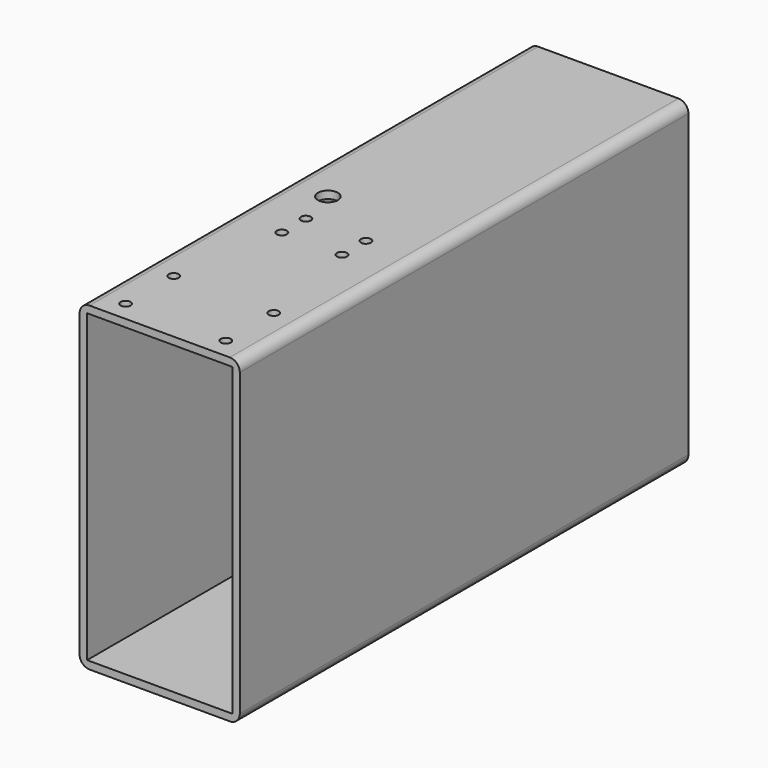
from build123d import *

# Parameters (mm, degrees)
F3_W     = 92.075
F3_H     = 193.675
F4_DEPTH = 355.6
F0_D     = 12.7
F0_DEPTH = 101.601
F2_D     = 12.7
F2_DEPTH = 101.601
F6_D     = 6.35
F6_DEPTH = 101.601


with BuildPart() as f4:
    # F3 (on Front) → F4 (new body)
    with BuildSketch(Plane.XZ):
        with BuildLine():
            ThreePointArc((-50.8, -95.25), (-48.9401280605, -99.7401280605), (-44.45, -101.6))
            Line((-44.45, -101.6), (44.45, -101.6))
            ThreePointArc((44.45, -101.6), (48.9401280605, -99.7401280605), (50.8, -95.25))
            Line((50.8, -95.25), (50.8, 95.25))
            ThreePointArc((50.8, 95.25), (48.9401280605, 99.7401280605), (44.45, 101.6))
            Line((44.45, 101.6), (-44.45, 101.6))
            ThreePointArc((-44.45, 101.6), (-48.9401280605, 99.7401280605), (-50.8, 95.25))
            Line((-50.8, 95.25), (-50.8, -95.25))
        make_face()
        Rectangle(F3_W, F3_H, mode=Mode.SUBTRACT)
    extrude(amount=-F4_DEPTH)

    # F0 (through all, one way)
    with BuildSketch(Plane.XY):
        with Locations((0, 228.6), (0, 152.4), (0, 76.2)):
            Circle(F0_D / 2)
    extrude(amount=-F0_DEPTH, mode=Mode.SUBTRACT)

    # F2 (through all, one way)
    with BuildSketch(Plane(origin=(0, 0, 0), x_dir=(1, 0, 0), z_dir=(0, 0, -1))):
        with Locations((-25.4, -165.1)):
            Circle(F2_D / 2)
    extrude(amount=-F2_DEPTH, mode=Mode.SUBTRACT)

    # F6 (through all, one way)
    with BuildSketch(Plane(origin=(0, 0, 0), x_dir=(1, 0, 0), z_dir=(0, 0, -1))):
        with Locations((31.75, -12.7), (-31.75, -12.7), (-31.75, -50.8), (31.75, -50.8), (19.05, -139.7), (-19.05, -139.7), (19.05, -120.65), (-19.05, -120.65)):
            Circle(F6_D / 2)
    extrude(amount=-F6_DEPTH, mode=Mode.SUBTRACT)


solid = f4.part
